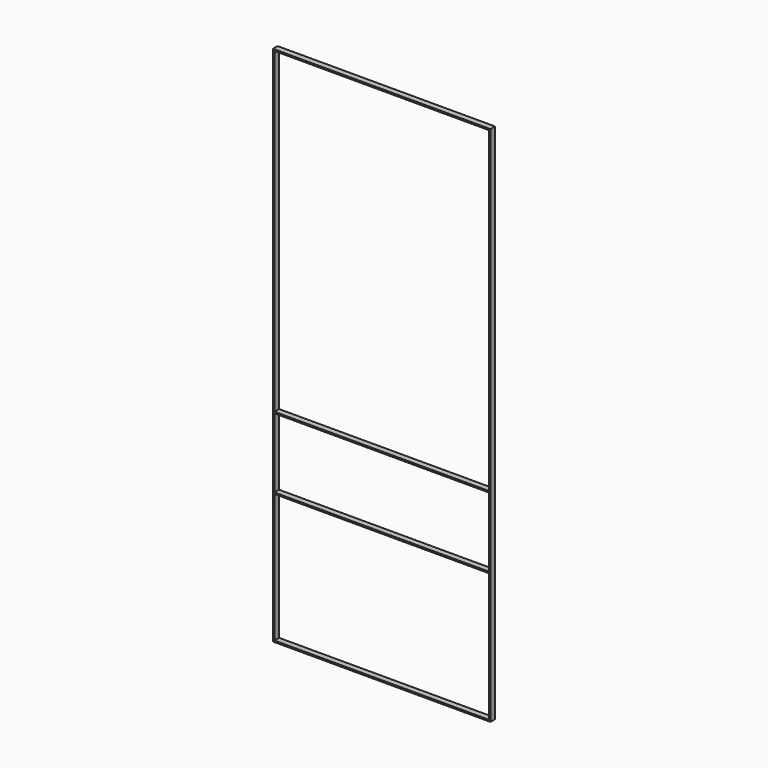
from build123d import *

# Parameters (mm, degrees)
F0_W     = 750
F0_H     = 1800
F0_W_2   = 739.999995
F0_H_2   = 1789.999995
F1_DEPTH = 20
F2_W     = 748.980001
F2_H     = 5
F2_W_2   = 744.481355
F3_DEPTH = 20


with BuildPart() as f1:
    # F0 (on Front) → F1 (new body)
    with BuildSketch(Plane.XZ):
        with Locations((297.36115, 591.838682)):
            Rectangle(F0_W, F0_H)
        with Locations((297.361151, 591.838682)):
            Rectangle(F0_W_2, F0_H_2, mode=Mode.SUBTRACT)
    extrude(amount=F1_DEPTH)

    # F2 (on Front) → F3 (join)
    with BuildSketch(Plane.XZ):
        with Locations((297.594332, 389.002619)):
            Rectangle(F2_W, F2_H)
        with Locations((297.196076, 144.002619)):
            Rectangle(F2_W_2, F2_H)
    extrude(amount=F3_DEPTH)


solid = f1.part
